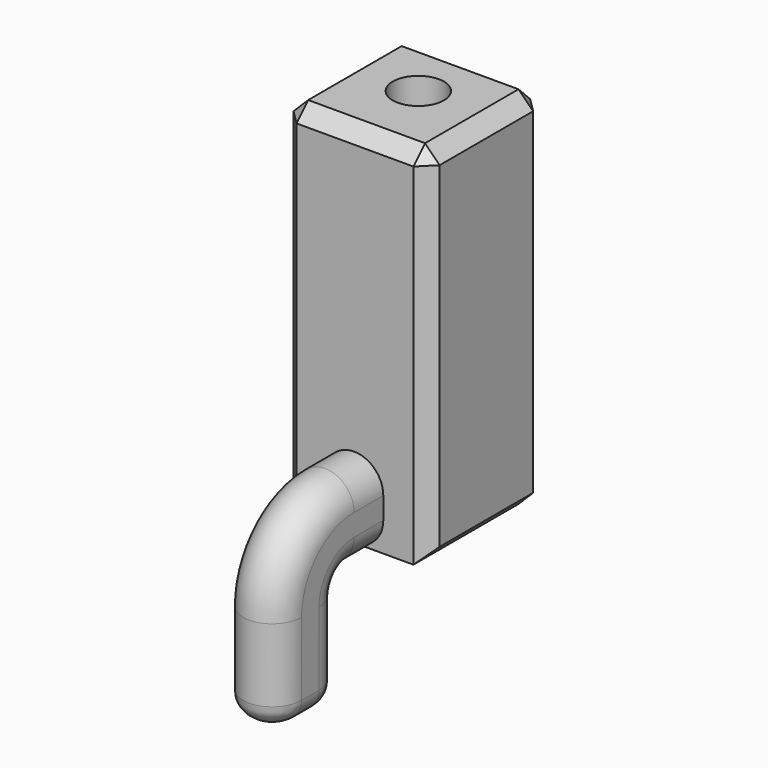
from build123d import *

# Parameters (mm, degrees)
F0_W            = 20
F0_H            = 20
F1_DEPTH        = 50
F5_R            = 3
F6_SIZE         = 2
F7_R            = 3.5
F8_DEPTH        = 40
F10_D           = 4.4
F10_DEPTH       = 10
F10_CBORE_D     = 8.25
F10_CBORE_DEPTH = 4
F10_TIP         = 1.3218933619
F11_R           = 2
F12_DEPTH       = 27


with BuildPart() as f1:
    # F0 (on Top) → F1 (new body)
    with BuildSketch(Plane.XY):
        with Locations((0.1188712195, -1.538979894)):
            Rectangle(F0_W, F0_H)
    extrude(amount=F1_DEPTH)

    # F4: sweep along a path in F3
    with BuildLine(Plane.YZ) as f4_path:
        Line((-11.538979894, 0), (-16.538979894, 0))
        ThreePointArc((-16.538979894, 0), (-17.9531934564, -0.5857864376), (-18.538979894, -2))
        Line((-18.538979894, -2), (-18.538979894, -15))
    # F2 (on face) → F4 (sweep)
    with BuildSketch(Plane.XZ.offset(11.538979894)):
        with BuildLine():
            Line((-4, 7), (-4, 4))
            ThreePointArc((-4, 4), (-2.8284271247, 1.1715728753), (0, 0))
            ThreePointArc((0, 0), (2.8284271247, 1.1715728753), (4, 4))
            Line((4, 4), (4, 7))
            ThreePointArc((4, 7), (0, 11), (-4, 7))
        make_face()
    sweep(path=f4_path.line)

    # F5
    f5_edges = [f1.edges().sort_by_distance(p)[0] for p in [
        (-4, -24.03898, -15),
        (0, -18.53898, -15),
        (4, -24.03898, -15),
        (0, -29.53898, -15),
    ]]
    fillet(f5_edges, radius=F5_R)

    # F6
    f6_edges = [f1.edges().sort_by_distance(p)[0] for p in [
        (10.118871, -11.53898, 25),
        (10.118871, 8.46102, 25),
        (-9.881129, -11.53898, 25),
        (-9.881129, -1.53898, 0),
        (10.118871, -1.53898, 0),
        (0.118871, 8.46102, 0),
        (-9.881129, 8.46102, 25),
        (10.118871, -1.53898, 50),
        (0.118871, 8.46102, 50),
        (-9.881129, -1.53898, 50),
        (0.118871, -11.53898, 50),
    ]]
    chamfer(f6_edges, length=F6_SIZE)

    # F7 (on face) → F8 (cut)
    with BuildSketch(Plane.XY.offset(50)):
        with Locations((0, -0.538979894)):
            Circle(F7_R)
    extrude(amount=-F8_DEPTH, mode=Mode.SUBTRACT)

    # F10
    with Locations(Plane(origin=(0, 8.461020106, 0), x_dir=(-1, 0, 0), z_dir=(0, 1, 0))):
        with Locations((0, 40), (0, 30), (0, 20)):
            CounterBoreHole(F10_D / 2, F10_CBORE_D / 2, F10_CBORE_DEPTH, depth=F10_DEPTH)
            with Locations((0, 0, -(F10_DEPTH + F10_TIP / 2))):  # 118° drill point
                Cone(0, F10_D / 2, F10_TIP, mode=Mode.SUBTRACT)

    # F11 (on face) → F12 (cut)
    with BuildSketch(Plane(origin=(0, 8.461020106, 0), x_dir=(-1, 0, 0), z_dir=(0, 1, 0))):
        with Locations((0, 5)):
            Circle(F11_R)
    extrude(amount=-F12_DEPTH, mode=Mode.SUBTRACT)


solid = f1.part
